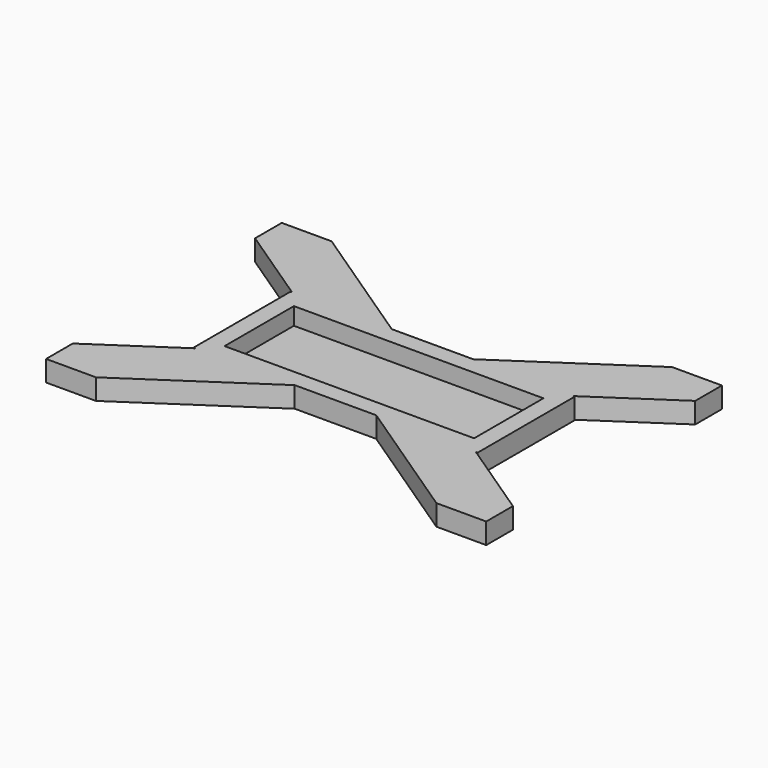
from build123d import *

# Parameters (mm, degrees)
F0_W     = 72
F0_H     = 25
F1_DEPTH = 6
F2_DEPTH = 1


with BuildPart() as f1:
    # F0 (on Top) → F1 (new body)
    with BuildSketch(Plane.XY):
        Polygon((-49.116927, 42.5), (-63.5, 42.5), (-63.5, 32.873533), (-40.530132, 17.5), (-41, 17.5), (-41, -17.5), (-40.530132, -17.5), (-63.5, -32.873533), (-63.5, -42.5), (-49.116927, -42.5), (-11.763985, -17.5), (11.763985, -17.5), (49.116927, -42.5), (63.5, -42.5), (63.5, -32.873533), (40.530132, -17.5), (41, -17.5), (41, 17.5), (40.530132, 17.5), (63.5, 32.873533), (63.5, 42.5), (49.116927, 42.5), (11.763985, 17.5), (-11.763985, 17.5), align=None)
        Rectangle(F0_W, F0_H, mode=Mode.SUBTRACT)
    extrude(amount=F1_DEPTH)

    # F0 (on Top) → F2 (join)
    with BuildSketch(Plane.XY):
        Rectangle(F0_W, F0_H)
    extrude(amount=F2_DEPTH)


solid = f1.part
